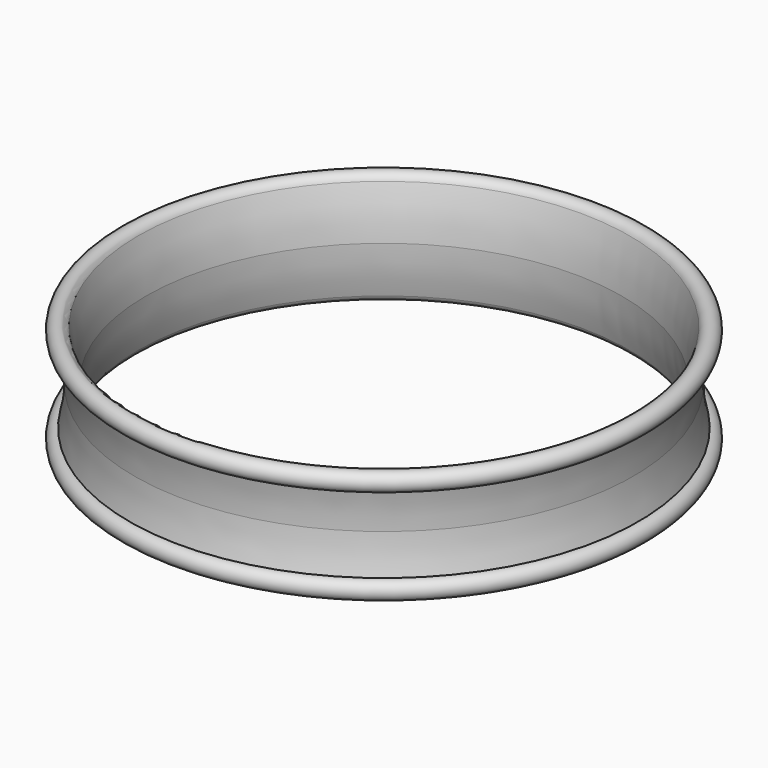
from build123d import *


with BuildPart() as f1:
    # F0 (on Front) → F1 (revolve)
    with BuildSketch(Plane.XZ):
        with BuildLine():
            ThreePointArc((-33.135083, 5), (-32.659406, 2.520086), (-32.5, 0))
            ThreePointArc((-32.5, 0), (-32.659406, -2.520086), (-33.135083, -5))
            ThreePointArc((-33.135083, -5), (-34.149419, -6.892583), (-32.027139, -6.56597))
            ThreePointArc((-32.027139, -6.56597), (-31.258337, -3.322912), (-31, 0))
            ThreePointArc((-31, 0), (-31.258337, 3.322912), (-32.027139, 6.56597))
            ThreePointArc((-32.027139, 6.56597), (-34.149419, 6.892583), (-33.135083, 5))
        make_face()
    revolve(axis=Axis((0, 0, 17.003081), (0, 0, 1)))


solid = f1.part
